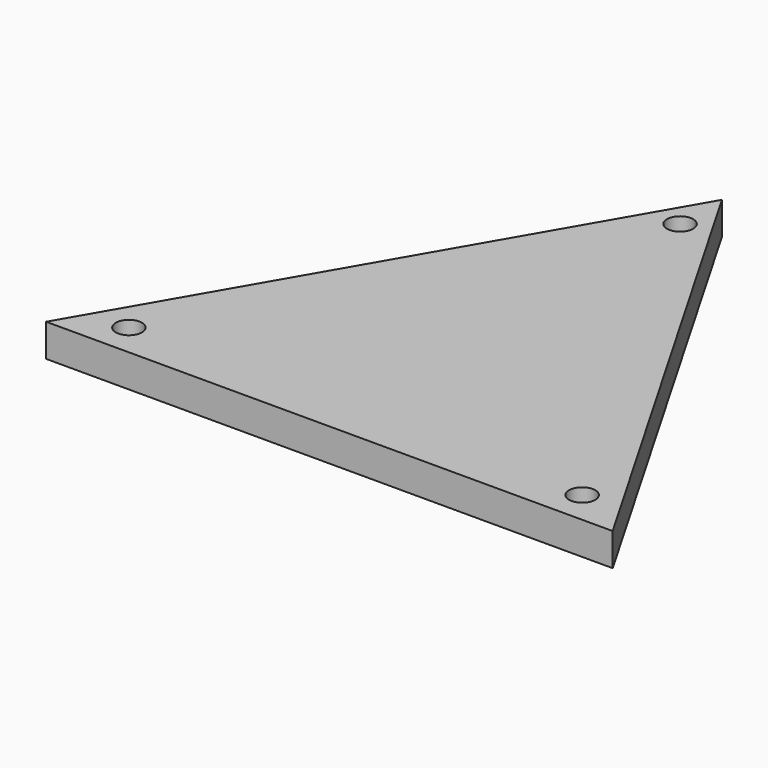
from build123d import *

# Parameters (mm, degrees)
F0_R     = 4
F1_DEPTH = 10


with BuildPart() as f1:
    # F0 (on Top) → F1 (new body)
    with BuildSketch(Plane.XY):
        Polygon((86.60254, 150), (0, 0), (173.205081, 0), align=None)
        with Locations((17.320508, 10)):
            Circle(F0_R, mode=Mode.SUBTRACT)
        with Locations((155.884573, 10)):
            Circle(F0_R, mode=Mode.SUBTRACT)
        with Locations((86.60254, 134)):
            Circle(F0_R, mode=Mode.SUBTRACT)
    extrude(amount=F1_DEPTH)


solid = f1.part
